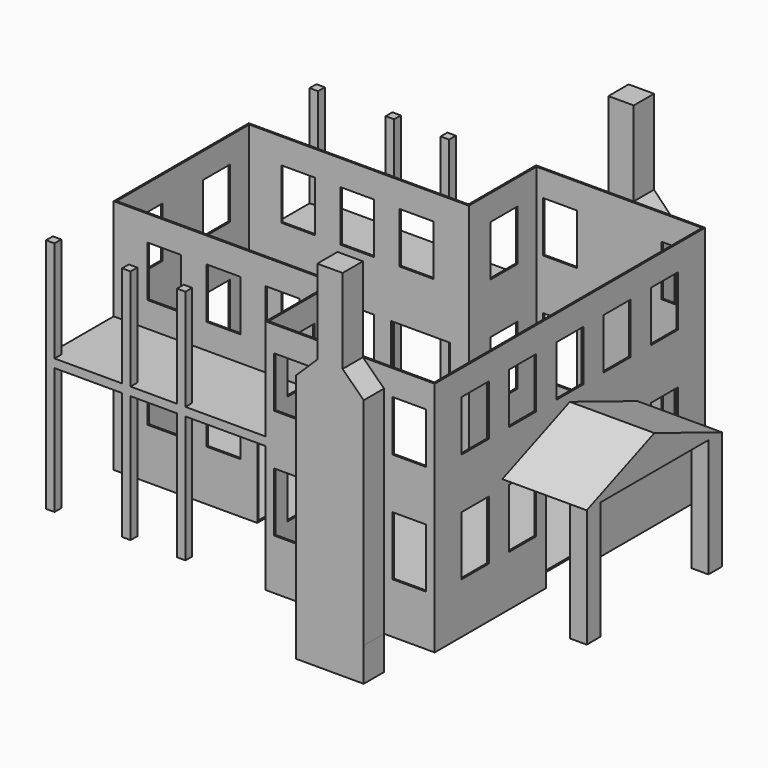
from build123d import *

# Parameters (mm, degrees)
F0_W      = 254
F0_H      = 508
F1_DEPTH  = 355.6
F2_W      = 254
F2_H      = 355.6
F3_DEPTH  = 330.2
F4_T      = -2.54
F5_W      = 50.8
F5_H      = 76.2
F6_DEPTH  = 25.4
F9_DEPTH  = 127
F10_W     = 25.4
F10_H     = 25.4
F11_DEPTH = 177.8
F8_W      = 50.8
F8_H      = 88.9
F8_W_2    = 88.9
F8_H_2    = 165.1
F12_DEPTH = 25.4
F14_W     = 38.1
F14_H     = 127
F14_W_2   = 101.5867227793
F14_H_2   = 50.8
F15_DEPTH = 38.1
F16_W     = 38.1
F16_H     = 127
F16_W_2   = 101.6
F16_H_2   = 50.8
F17_DEPTH = 38.1
F18_W     = 50.8
F18_H     = 76.2
F18_H_2   = 88.9
F19_DEPTH = 25.4
F20_W     = 88.9
F20_H     = 165.1
F21_DEPTH = 25.4
F22_W     = 50.8
F22_H     = 76.2
F22_H_2   = 88.9
F23_DEPTH = 25.4
F24_W     = 50.8
F24_H     = 76.2
F24_H_2   = 88.9
F25_DEPTH = 25.4
F26_W     = 88.9
F26_H     = 165.1
F26_W_2   = 50.8
F26_H_2   = 88.9
F26_H_3   = 76.2
F27_DEPTH = 25.4
F28_W     = 50.8
F28_H     = 76.2
F28_H_2   = 88.9
F29_DEPTH = 25.4
F30_W     = 50.8
F30_H     = 76.2
F30_H_2   = 88.9
F31_DEPTH = 25.4
F32_W     = 330.2
F32_H     = 12.7
F33_DEPTH = 127
F34_W     = 12.7
F34_H     = 12.7
F35_DEPTH = 190.5
F36_W     = 12.7
F36_H     = 12.7
F37_DEPTH = 152.4
F38_W     = 330.2
F38_H     = 12.7
F39_DEPTH = 127
F40_W     = 12.7
F40_H     = 12.7
F41_DEPTH = 190.5
F42_W     = 12.7
F42_H     = 12.7
F43_DEPTH = 152.4


with BuildPart() as f1:
    # F0 (on Top) → F1 (new body)
    with BuildSketch(Plane.XY):
        with Locations((127, 254)):
            Rectangle(F0_W, F0_H)
    extrude(amount=F1_DEPTH)

    # F2 (on face) → F3 (join)
    with BuildSketch(Plane(origin=(0, 0, 0), x_dir=(0, -1, 0), z_dir=(-1, 0, 0))):
        with Locations((-254, 177.8)):
            Rectangle(F2_W, F2_H)
    extrude(amount=F3_DEPTH)

    # F4
    f4_openings = [f1.faces().sort_by_distance(p)[0] for p in [
        (11.930303, 254, 355.6),
    ]]
    offset(amount=F4_T, openings=f4_openings, kind=Kind.INTERSECTION)

    # F5 (on face) → F6 (cut)
    with BuildSketch(Plane.YZ.offset(254)):
        with Locations((76.2, 279.4)):
            Rectangle(F5_W, F5_H)
        with Locations((165.1, 279.4)):
            Rectangle(F5_W, F5_H)
        with Locations((254, 279.4)):
            Rectangle(F5_W, F5_H)
        with Locations((342.9, 279.4)):
            Rectangle(F5_W, F5_H)
        with Locations((431.8, 279.4)):
            Rectangle(F5_W, F5_H)
    extrude(amount=-F6_DEPTH, mode=Mode.SUBTRACT)

    # F7 (on face) → F9 (join)
    with BuildSketch(Plane.YZ.offset(254)):
        Polygon((381, 177.8), (254, 228.4357100725), (127, 177.8), align=None)
    extrude(amount=F9_DEPTH)

    # F10 (on face) → F11 (join)
    with BuildSketch(Plane(origin=(0, 0, 177.8), x_dir=(1, 0, 0), z_dir=(0, 0, -1))):
        with Locations((368.3, -139.7)):
            Rectangle(F10_W, F10_H)
        with Locations((368.3, -368.3)):
            Rectangle(F10_W, F10_H)
    extrude(amount=F11_DEPTH)

    # F8 (on face) → F12 (cut)
    with BuildSketch(Plane.YZ.offset(254)):
        with Locations((76.2, 120.65)):
            Rectangle(F8_W, F8_H)
        with Locations((165.1, 120.65)):
            Rectangle(F8_W, F8_H)
        with Locations((254, 82.55)):
            Rectangle(F8_W_2, F8_H_2)
        with Locations((342.9, 120.65)):
            Rectangle(F8_W, F8_H)
        with Locations((431.8, 120.65)):
            Rectangle(F8_W, F8_H)
    extrude(amount=-F12_DEPTH, mode=Mode.SUBTRACT)

    # F14 (on face) → F15 (join)
    with BuildSketch(Plane.XZ):
        Polygon((76.2, 324.4914802667), (76.2, 0), (177.7867227793, 0), (177.8, 0), (177.8, 324.4914802667), (146.05, 355.6), (107.95, 355.6), align=None)
        with Locations((127, 419.1)):
            Rectangle(F14_W, F14_H)
        with Locations((126.9933613896, -25.4)):
            Rectangle(F14_W_2, F14_H_2)
    extrude(amount=F15_DEPTH)

    # F16 (on face) → F17 (join)
    with BuildSketch(Plane(origin=(0, 508, 0), x_dir=(-1, 0, 0), z_dir=(0, 1, 0))):
        Polygon((-177.8, 323.7349326786), (-177.8, 0), (-76.2, 0), (-76.2, 325.2859069076), (-108.7093564991, 355.6), (-146.8093564991, 355.6), align=None)
        with Locations((-127.7593564991, 419.1)):
            Rectangle(F16_W, F16_H)
        with Locations((-127, -25.4)):
            Rectangle(F16_W_2, F16_H_2)
    extrude(amount=F17_DEPTH)

    # F18 (on face) → F19 (cut)
    with BuildSketch(Plane.XZ.offset(-127)):
        with Locations((-254, 279.4)):
            Rectangle(F18_W, F18_H)
        with Locations((-165.1, 279.4)):
            Rectangle(F18_W, F18_H)
        with Locations((-76.2, 279.4)):
            Rectangle(F18_W, F18_H)
        with Locations((-165.1, 120.65)):
            Rectangle(F18_W, F18_H_2)
        with Locations((-254, 120.65)):
            Rectangle(F18_W, F18_H_2)
    extrude(amount=-F19_DEPTH, mode=Mode.SUBTRACT)

    # F20 (on face) → F21 (cut)
    with BuildSketch(Plane.XZ.offset(-127)):
        with Locations((-69.85, 82.55)):
            Rectangle(F20_W, F20_H)
    extrude(amount=-F21_DEPTH, mode=Mode.SUBTRACT)

    # F22 (on face) → F23 (cut)
    with BuildSketch(Plane(origin=(-330.2, 0, 0), x_dir=(0, -1, 0), z_dir=(-1, 0, 0))):
        with Locations((-317.5, 279.4)):
            Rectangle(F22_W, F22_H)
        with Locations((-190.5, 279.4)):
            Rectangle(F22_W, F22_H)
        with Locations((-190.5, 120.65)):
            Rectangle(F22_W, F22_H_2)
        with Locations((-317.5, 120.65)):
            Rectangle(F22_W, F22_H_2)
    extrude(amount=-F23_DEPTH, mode=Mode.SUBTRACT)

    # F24 (on face) → F25 (cut)
    with BuildSketch(Plane.XZ):
        with Locations((38.1, 279.4)):
            Rectangle(F24_W, F24_H)
        with Locations((215.9, 279.4)):
            Rectangle(F24_W, F24_H)
        with Locations((215.9, 120.65)):
            Rectangle(F24_W, F24_H_2)
        with Locations((38.1, 120.65)):
            Rectangle(F24_W, F24_H_2)
    extrude(amount=-F25_DEPTH, mode=Mode.SUBTRACT)

    # F26 (on face) → F27 (cut)
    with BuildSketch(Plane(origin=(0, 381, 0), x_dir=(-1, 0, 0), z_dir=(0, 1, 0))):
        with Locations((69.85, 82.55)):
            Rectangle(F26_W, F26_H)
        with Locations((165.1, 120.65)):
            Rectangle(F26_W_2, F26_H_2)
        with Locations((254, 120.65)):
            Rectangle(F26_W_2, F26_H_2)
        with Locations((254, 279.4)):
            Rectangle(F26_W_2, F26_H_3)
        with Locations((165.1, 279.4)):
            Rectangle(F26_W_2, F26_H_3)
        with Locations((76.2, 279.4)):
            Rectangle(F26_W_2, F26_H_3)
    extrude(amount=-F27_DEPTH, mode=Mode.SUBTRACT)

    # F28 (on face) → F29 (cut)
    with BuildSketch(Plane(origin=(0, 0, 0), x_dir=(0, -1, 0), z_dir=(-1, 0, 0))):
        with Locations((-444.5, 279.4)):
            Rectangle(F28_W, F28_H)
        with Locations((-444.5, 120.65)):
            Rectangle(F28_W, F28_H_2)
        with Locations((-63.5, 279.4)):
            Rectangle(F28_W, F28_H)
        with Locations((-63.5, 120.65)):
            Rectangle(F28_W, F28_H_2)
    extrude(amount=-F29_DEPTH, mode=Mode.SUBTRACT)

    # F30 (on face) → F31 (cut)
    with BuildSketch(Plane(origin=(0, 508, 0), x_dir=(-1, 0, 0), z_dir=(0, 1, 0))):
        with Locations((-215.9, 279.4)):
            Rectangle(F30_W, F30_H)
        with Locations((-215.9, 120.65)):
            Rectangle(F30_W, F30_H_2)
        with Locations((-38.1, 279.4)):
            Rectangle(F30_W, F30_H)
        with Locations((-38.1, 120.65)):
            Rectangle(F30_W, F30_H_2)
    extrude(amount=-F31_DEPTH, mode=Mode.SUBTRACT)

    # F32 (on face) → F33 (join)
    with BuildSketch(Plane.XZ.offset(-127)):
        with Locations((-165.1, 196.85)):
            Rectangle(F32_W, F32_H)
    extrude(amount=F33_DEPTH)

    # F34 (on face) → F35 (join)
    with BuildSketch(Plane(origin=(0, 0, 190.5), x_dir=(1, 0, 0), z_dir=(0, 0, -1))):
        with Locations((-323.85, -6.35)):
            Rectangle(F34_W, F34_H)
        with Locations((-209.55, -6.35)):
            Rectangle(F34_W, F34_H)
        with Locations((-127, -6.35)):
            Rectangle(F34_W, F34_H)
    extrude(amount=F35_DEPTH)

    # F36 (on face) → F37 (join)
    with BuildSketch(Plane.XY.offset(203.2)):
        with Locations((-323.85, 6.35)):
            Rectangle(F36_W, F36_H)
        with Locations((-209.55, 6.35)):
            Rectangle(F36_W, F36_H)
        with Locations((-127, 6.35)):
            Rectangle(F36_W, F36_H)
    extrude(amount=F37_DEPTH)

    # F38 (on face) → F39 (join)
    with BuildSketch(Plane(origin=(0, 381, 0), x_dir=(-1, 0, 0), z_dir=(0, 1, 0))):
        with Locations((165.1, 196.85)):
            Rectangle(F38_W, F38_H)
    extrude(amount=F39_DEPTH)

    # F40 (on face) → F41 (join)
    with BuildSketch(Plane(origin=(0, 0, 190.5), x_dir=(1, 0, 0), z_dir=(0, 0, -1))):
        with Locations((-127, -501.65)):
            Rectangle(F40_W, F40_H)
        with Locations((-209.55, -501.65)):
            Rectangle(F40_W, F40_H)
        with Locations((-323.85, -501.65)):
            Rectangle(F40_W, F40_H)
    extrude(amount=F41_DEPTH)

    # F42 (on face) → F43 (join)
    with BuildSketch(Plane.XY.offset(203.2)):
        with Locations((-127, 501.65)):
            Rectangle(F42_W, F42_H)
        with Locations((-209.55, 501.65)):
            Rectangle(F42_W, F42_H)
        with Locations((-323.85, 501.65)):
            Rectangle(F42_W, F42_H)
    extrude(amount=F43_DEPTH)


solid = f1.part
